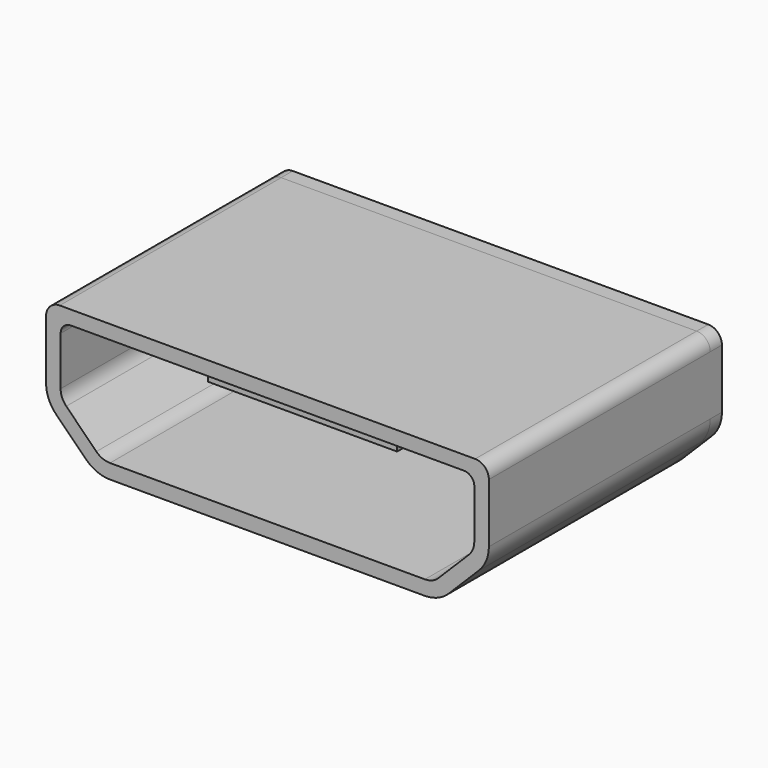
from build123d import *

# Parameters (mm, degrees)
SKETCH018_W  = 3.25
SKETCH018_H  = 0.3
PAD023_DEPTH = 4
PAD022_DEPTH = 0.25
PAD021_DEPTH = 4.75


with BuildPart() as part:
    # Sketch018 → Pad023 (new body)
    with BuildSketch(Plane(origin=(0, 1.75, 0), x_dir=(-1, 0, 0), z_dir=(0, 1, 0))):
        with Locations((0, 0.5)):
            Rectangle(SKETCH018_W, SKETCH018_H)
    extrude(amount=-PAD023_DEPTH)

    # Sketch017 → Pad022 (join)
    with BuildSketch(Plane.XZ.offset(-1.75)):
        with BuildLine():
            Line((3.565827, 1.174586), (-3.565827, 1.174586))
            ThreePointArc((-3.565827, 1.174586), (-3.731412, 1.105999), (-3.8, 0.940414))
            Line((-3.8, -0.074586), (-3.8, 0.940414))
            ThreePointArc((-3.8, -0.074586), (-3.755291, -0.299355), (-3.62797, -0.489904))
            Line((-3.62797, -0.489904), (-3.115317, -1.002556))
            ThreePointArc((-3.115317, -1.002556), (-2.924768, -1.129877), (-2.7, -1.174586))
            Line((-2.7, -1.174586), (2.7, -1.174586))
            ThreePointArc((2.7, -1.174586), (2.924768, -1.129877), (3.115317, -1.002556))
            Line((3.115317, -1.002556), (3.62797, -0.489904))
            ThreePointArc((3.62797, -0.489904), (3.755291, -0.299355), (3.8, -0.074586))
            Line((3.8, 0.940414), (3.8, -0.074586))
            ThreePointArc((3.8, 0.940414), (3.731412, 1.105999), (3.565827, 1.174586))
        make_face()
    extrude(amount=-PAD022_DEPTH)

    # Sketch016 → Pad021 (join)
    with BuildSketch(Plane(origin=(0, -3, 0), x_dir=(-1, 0, 0), z_dir=(0, 1, 0))):
        with BuildLine():
            Line((-3.565, 1.175), (3.565, 1.175))
            ThreePointArc((3.8, 0.94), (3.73117, 1.10617), (3.565, 1.175))
            Line((3.8, 0.94), (3.8, -0.075))
            ThreePointArc((3.62797, -0.490317), (3.755291, -0.299768), (3.8, -0.075))
            Line((3.62797, -0.490317), (3.115317, -1.00297))
            ThreePointArc((2.7, -1.175), (2.924768, -1.130291), (3.115317, -1.00297))
            Line((2.7, -1.175), (-2.7, -1.175))
            ThreePointArc((-3.115317, -1.00297), (-2.924768, -1.130291), (-2.7, -1.175))
            Line((-3.115317, -1.00297), (-3.62797, -0.490317))
            ThreePointArc((-3.8, -0.075), (-3.755291, -0.299768), (-3.62797, -0.490317))
            Line((-3.8, -0.075), (-3.8, 0.94))
            ThreePointArc((-3.565, 1.175), (-3.73117, 1.10617), (-3.8, 0.94))
        make_face()
        with BuildLine():
            Line((-3.373361, 0.935), (3.373361, 0.935))
            ThreePointArc((3.55, 0.758361), (3.498264, 0.883264), (3.373361, 0.935))
            Line((3.55, 0.758361), (3.55, -0.077967))
            ThreePointArc((3.453274, -0.311484), (3.524862, -0.204346), (3.55, -0.077967))
            Line((3.453274, -0.311484), (2.936484, -0.828274))
            ThreePointArc((2.702967, -0.925), (2.829346, -0.899862), (2.936484, -0.828274))
            Line((2.702967, -0.925), (-2.702967, -0.925))
            ThreePointArc((-2.936484, -0.828274), (-2.829346, -0.899862), (-2.702967, -0.925))
            Line((-2.936484, -0.828274), (-3.453274, -0.311484))
            ThreePointArc((-3.55, -0.077967), (-3.524862, -0.204346), (-3.453274, -0.311484))
            Line((-3.55, -0.077967), (-3.55, 0.758361))
            ThreePointArc((-3.373361, 0.935), (-3.498264, 0.883264), (-3.55, 0.758361))
        make_face(mode=Mode.SUBTRACT)
    extrude(amount=PAD021_DEPTH)


with BuildPart() as part_1:
    # Pad023Body placement: moved
    add(part.part.moved(Location((39.2, 0, 1.175))))


solid = part_1.part
